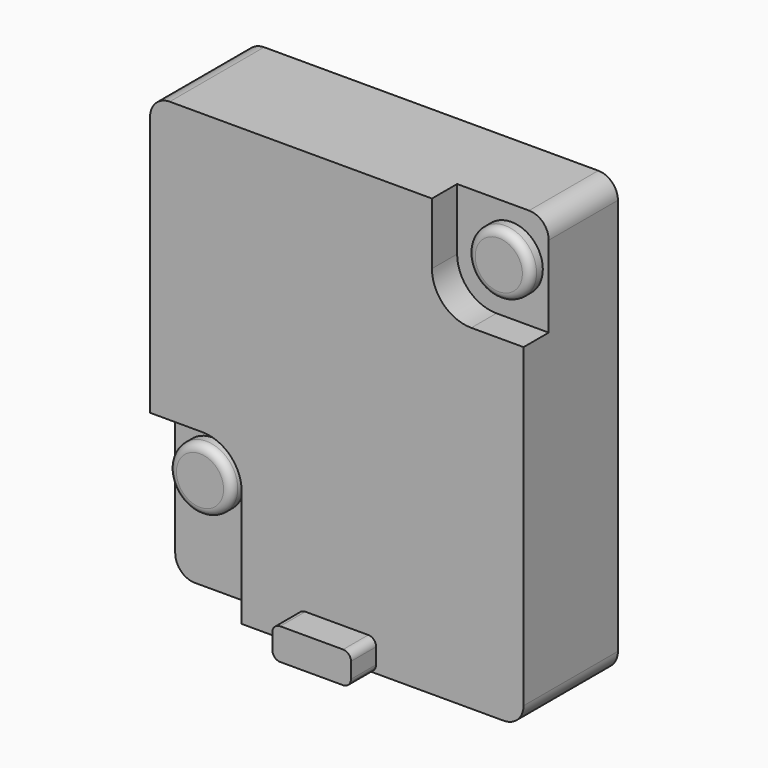
from build123d import *

# Parameters (mm, degrees)
SKETCH_W     = 9.5
SKETCH_H     = 11.1
PAD_DEPTH    = 3
POCKET_DEPTH = 0.8
SKETCH002_R  = 0.8
PAD001_DEPTH = 0.4
SKETCH003_R  = 0.8
PAD002_DEPTH = 0.4
FILLET_R     = 0.2
FILLET001_R  = 0.5
PAD003_DEPTH = 0.8


with BuildPart() as part:
    # Sketch → Pad (new body)
    with BuildSketch(Plane.XZ):
        with Locations((0, -0.7)):
            Rectangle(SKETCH_W, SKETCH_H)
    extrude(amount=PAD_DEPTH)

    # Sketch001 (on Face6 of Pad) → Pocket (cut)
    with BuildSketch(Plane.XZ.offset(3)):
        with BuildLine():
            Line((-3.42, -2.28), (-4.75, -2.28))
            Line((-4.75, -2.28), (-4.75, -6.25))
            Line((-4.75, -6.25), (-2.42, -6.25))
            Line((-2.42, -6.25), (-2.42, -3.28))
            ThreePointArc((-2.42, -3.28), (-2.712893, -2.572893), (-3.42, -2.28))
        make_face()
        with BuildLine():
            Line((4.75, 2.28), (4.75, 4.85))
            Line((4.75, 4.85), (2.42, 4.85))
            Line((2.42, 4.85), (2.42, 3.28))
            ThreePointArc((2.42, 3.28), (2.712893, 2.572893), (3.42, 2.28))
            Line((4.75, 2.28), (3.42, 2.28))
        make_face()
    extrude(amount=-POCKET_DEPTH, mode=Mode.SUBTRACT)

    # Sketch002 (on Face14 of Pocket) → Pad001 (join)
    with BuildSketch(Plane.XZ.offset(2.2)):
        with Locations((-3.8, -3.65)):
            Circle(SKETCH002_R)
    extrude(amount=PAD001_DEPTH)

    # Sketch003 (on Face4 of Pad001) → Pad002 (join)
    with BuildSketch(Plane.XZ.offset(2.2)):
        with Locations((3.8, 3.65)):
            Circle(SKETCH003_R)
    extrude(amount=PAD002_DEPTH)

    # Fillet
    fillet_edges = [part.edges().sort_by_distance(p)[0] for p in [
        (-4.6, -2.6, -3.65),
        (3, -2.6, 3.65),
    ]]
    fillet(fillet_edges, radius=FILLET_R)

    # Fillet001
    fillet001_edges = [part.edges().sort_by_distance(p)[0] for p in [
        (4.75, -1.1, 4.85),
        (-4.75, -1.5, 4.85),
        (-4.75, -1.1, -6.25),
        (4.75, -1.5, -6.25),
    ]]
    fillet(fillet001_edges, radius=FILLET001_R)

    # Sketch005 (on Face11 of Fillet001) → Pad003 (join)
    with BuildSketch(Plane.XZ.offset(3)):
        with BuildLine():
            Line((-0.8, -5.45), (0.8, -5.45))
            ThreePointArc((1, -5.65), (0.941421, -5.508579), (0.8, -5.45))
            Line((1, -5.65), (1, -6.05))
            ThreePointArc((0.8, -6.25), (0.941421, -6.191421), (1, -6.05))
            Line((0.8, -6.25), (-0.8, -6.25))
            ThreePointArc((-1, -6.05), (-0.941421, -6.191421), (-0.8, -6.25))
            Line((-1, -6.05), (-1, -5.65))
            ThreePointArc((-0.8, -5.45), (-0.941421, -5.508579), (-1, -5.65))
        make_face()
    extrude(amount=PAD003_DEPTH)


solid = part.part
